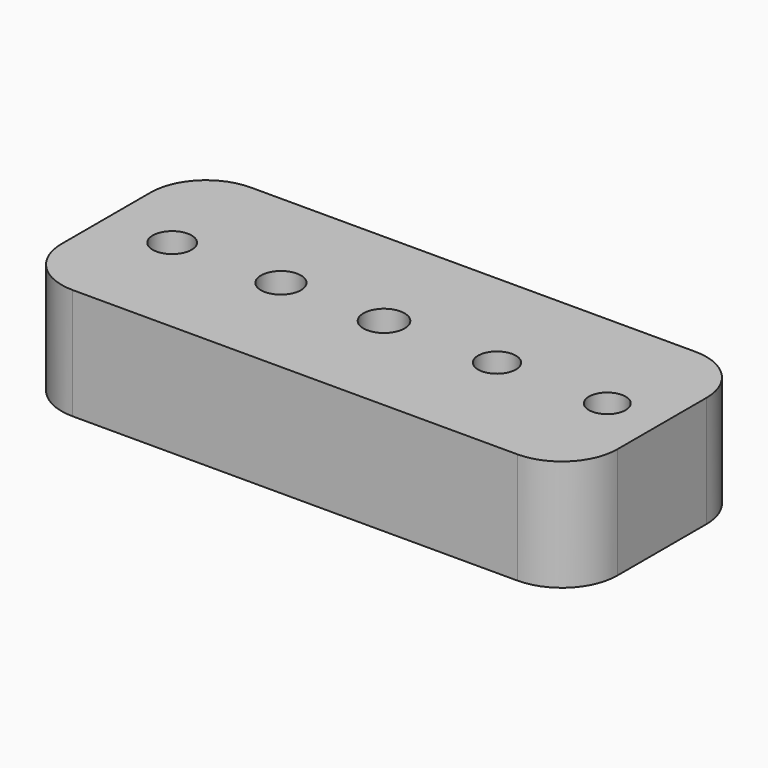
from build123d import *

# Parameters (mm, degrees)
F0_W     = 50
F0_H     = 20
F0_R     = 1.75
F0_R_2   = 1.8
F0_R_3   = 1.85
F0_R_4   = 1.7
F0_R_5   = 1.65
F1_DEPTH = 10
F2_R     = 5


with BuildPart() as f1:
    # F0 (on Top) → F1 (new body)
    with BuildSketch(Plane.XY):
        with Locations((-10.160664, -9.513981)):
            Rectangle(F0_W, F0_H)
        with Locations((-29.213587, -9.513981)):
            Circle(F0_R, mode=Mode.SUBTRACT)
        with Locations((-19.429876, -9.513981)):
            Circle(F0_R_2, mode=Mode.SUBTRACT)
        with Locations((-10.160664, -9.513981)):
            Circle(F0_R_3, mode=Mode.SUBTRACT)
        with Locations((0, -9.513981)):
            Circle(F0_R_4, mode=Mode.SUBTRACT)
        with Locations((9.921258, -9.513981)):
            Circle(F0_R_5, mode=Mode.SUBTRACT)
    extrude(amount=F1_DEPTH)

    # F2
    f2_edges = [f1.edges().sort_by_distance(p)[0] for p in [
        (14.839336, 0.486019, 5),
        (14.839336, -19.513981, 5),
        (-35.160664, 0.486019, 5),
        (-35.160664, -19.513981, 5),
    ]]
    fillet(f2_edges, radius=F2_R)


solid = f1.part
